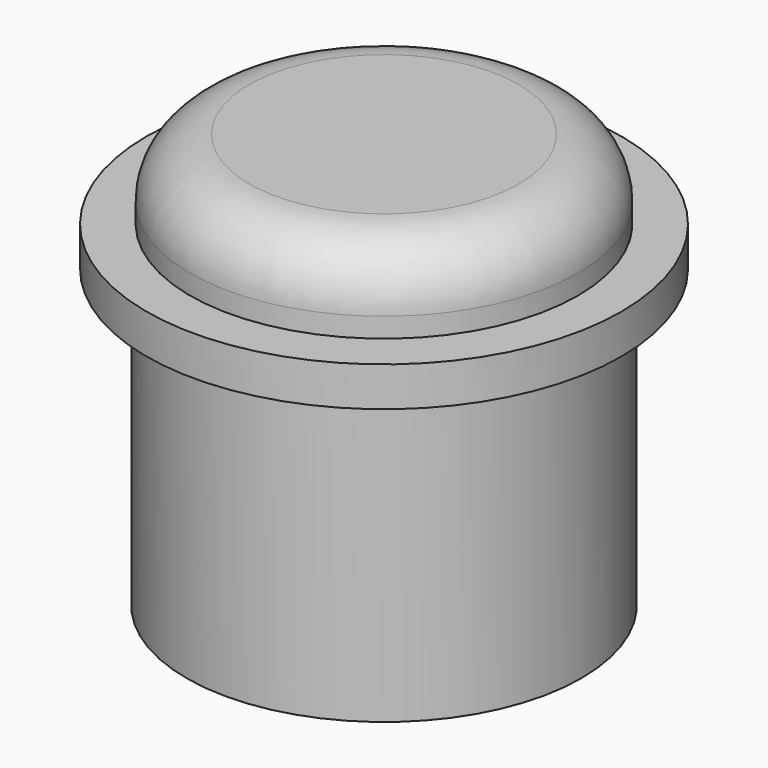
from build123d import *

# Parameters (mm, degrees)
F0_R     = 12.7
F1_DEPTH = 19.05
F2_R     = 15.2691244528
F2_R_2   = 12.7
F3_DEPTH = 2.54
F4_R     = 12.475880284
F5_DEPTH = 5.08
F6_R     = 3.81


with BuildPart() as f1:
    # F0 (on Top) → F1 (new body)
    with BuildSketch(Plane.XY):
        Circle(F0_R)
    extrude(amount=F1_DEPTH)

    # F2 (on face) → F3 (join)
    with BuildSketch(Plane.XY.offset(19.05)):
        Circle(F2_R)
        Circle(F2_R_2, mode=Mode.SUBTRACT)
        Circle(F2_R_2)
    extrude(amount=F3_DEPTH)

    # F4 (on face) → F5 (join)
    with BuildSketch(Plane.XY.offset(21.59)):
        Circle(F4_R)
    extrude(amount=F5_DEPTH)

    # F6
    f6_edges = [f1.edges().sort_by_distance(p)[0] for p in [
        (-12.47588, 0, 26.67),
    ]]
    fillet(f6_edges, radius=F6_R)


solid = f1.part
